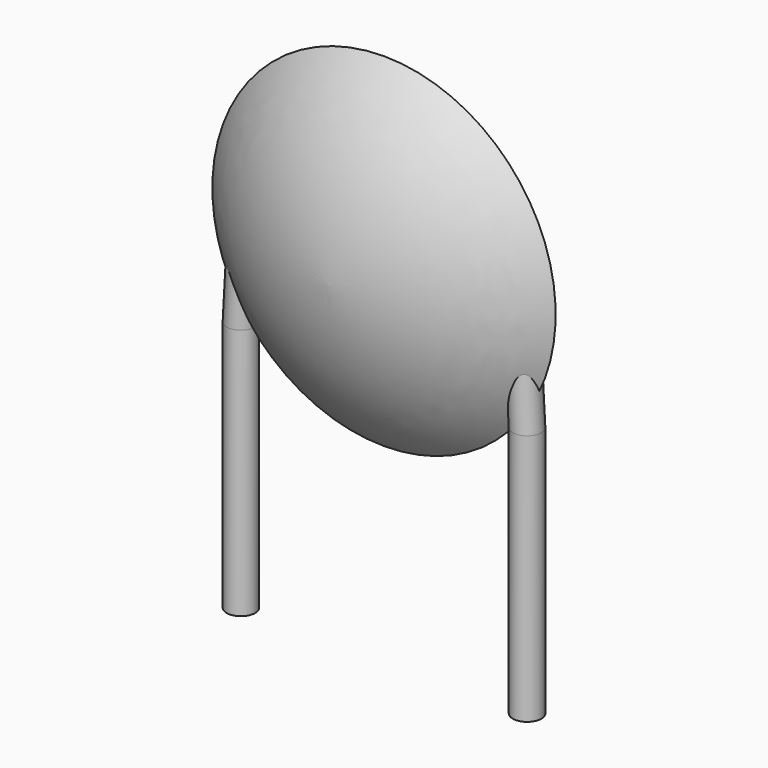
from build123d import *

# Parameters (mm, degrees)
SKETCH001_R       = 0.25
PAD001_DEPTH      = 1.2
PAD001_DEPTH_BACK = 3.2
SKETCH002_R       = 0.25
SKETCH003_R       = 0.25
SKETCH004_R       = 0.25
SKETCH005_R       = 0.25


with BuildPart() as pad001:
    # Sketch001 → Pad001 (new body, two sides)
    with BuildSketch(Plane.XY) as pad001_sk:
        Circle(SKETCH001_R)
        with Locations((5, 0)):
            Circle(SKETCH001_R)
    extrude(amount=PAD001_DEPTH)
    extrude(pad001_sk.sketch, amount=-PAD001_DEPTH_BACK)


with BuildPart() as revolution:
    # Sketch → Revolution (revolve)
    with BuildSketch(Plane.YZ.offset(2.5)):
        with BuildLine():
            Line((-1.25, 3.1), (1.25, 3.1))
            ThreePointArc((0, 0.1), (0.904319, 1.483617), (1.25, 3.1))
            ThreePointArc((-1.25, 3.1), (-0.904319, 1.483617), (0, 0.1))
        make_face()
    revolve(axis=Axis((2.5, -3.32079, 3.1), (0, 1, 0)))


with BuildPart() as loft_body:
    # Sketch002 → Loft section 0
    with BuildSketch(Plane.XY.offset(3)):
        with Locations((0.1, 0)):
            Circle(SKETCH002_R)
    # Sketch003 → Loft section 1
    with BuildSketch(Plane.XY.offset(1.2)):
        Circle(SKETCH003_R)
    loft()


with BuildPart() as loft001:
    # Sketch004 → Loft001 section 0
    with BuildSketch(Plane.XY.offset(1.2)):
        with Locations((5, 0)):
            Circle(SKETCH004_R)
    # Sketch005 → Loft001 section 1
    with BuildSketch(Plane.XY.offset(3)):
        with Locations((4.9, 0)):
            Circle(SKETCH005_R)
    loft()


solid = Compound([pad001.part, revolution.part, loft_body.part, loft001.part])
